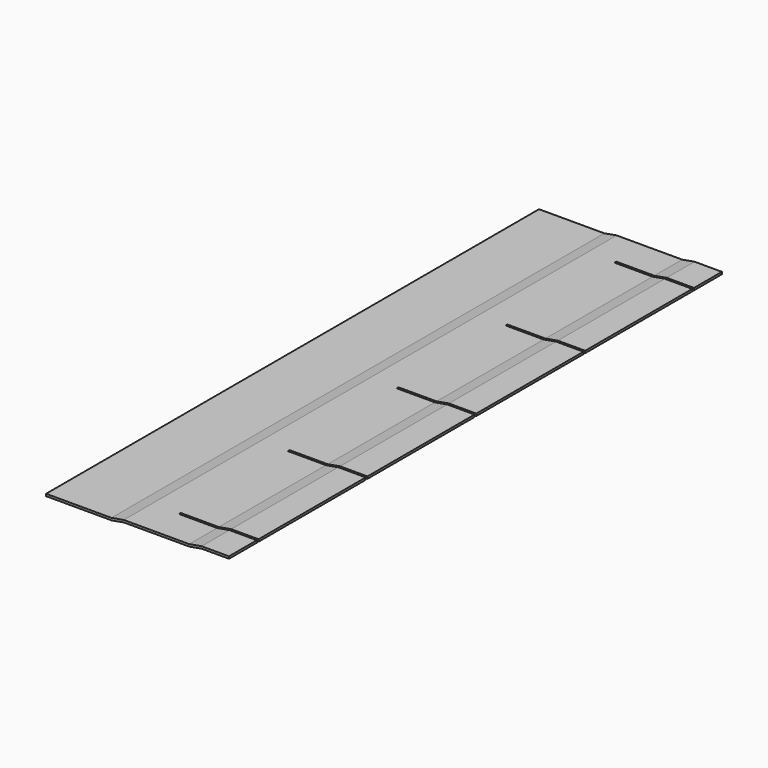
from build123d import *

# Parameters (mm, degrees)
F1_DEPTH      = 1132
F2_W          = 143
F2_H          = 4
F3_DEPTH      = 8.001
F3_DEPTH_BACK = 4.001


with BuildPart() as f1:
    # F0 (on Front) → F1 (new body)
    with BuildSketch(Plane.XZ):
        Polygon((119.9649180674, 0), (0, 0), (0, -4), (120.3148727215, -4), (143, 0), (263.3148727215, 0), (286, 4), (336, 4), (336, 8), (285.6500453459, 8), (262.9649180674, 4), (142.6500453459, 4), align=None)
    extrude(amount=-F1_DEPTH)

    # F2 (on face) → F3 (cut, two sides)
    with BuildSketch(Plane.XY.offset(4)) as f3_sk:
        with Locations((264.5, 66)):
            Rectangle(F2_W, F2_H)
        with Locations((264.5, 316)):
            Rectangle(F2_W, F2_H)
        with Locations((264.5, 566)):
            Rectangle(F2_W, F2_H)
        with Locations((264.5, 816)):
            Rectangle(F2_W, F2_H)
        with Locations((264.5, 1066)):
            Rectangle(F2_W, F2_H)
    extrude(amount=-F3_DEPTH, mode=Mode.SUBTRACT)
    extrude(f3_sk.sketch, amount=F3_DEPTH_BACK, mode=Mode.SUBTRACT)


solid = f1.part
